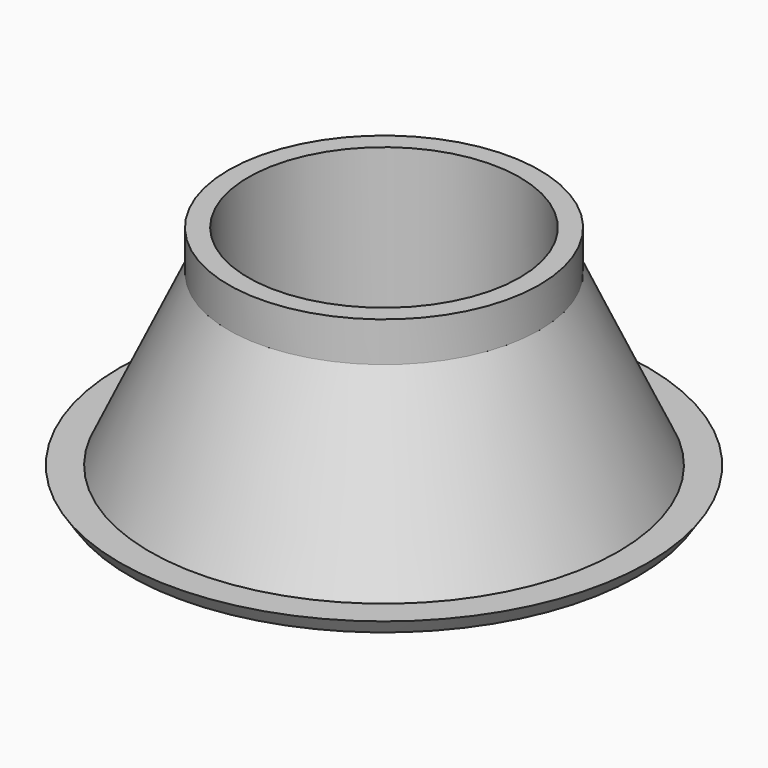
from build123d import *

# Parameters (mm, degrees)
F2_R     = 27.25
F3_DEPTH = 45.001


with BuildPart() as f1:
    # F0 (on Front) → F1 (revolve)
    with BuildSketch(Plane.XZ):
        Polygon((-51, 0), (0, 0), (0, 45), (-31.2, 45), (-31.2, 37), (-47, 3), (-53, 3), align=None)
    revolve(axis=Axis((0, 0, 22.5), (0, 0, 1)))

    # F2 (on face) → F3 (cut, through all)
    with BuildSketch(Plane.XY.offset(45)):
        Circle(F2_R)
    extrude(amount=-F3_DEPTH, mode=Mode.SUBTRACT)


solid = f1.part
